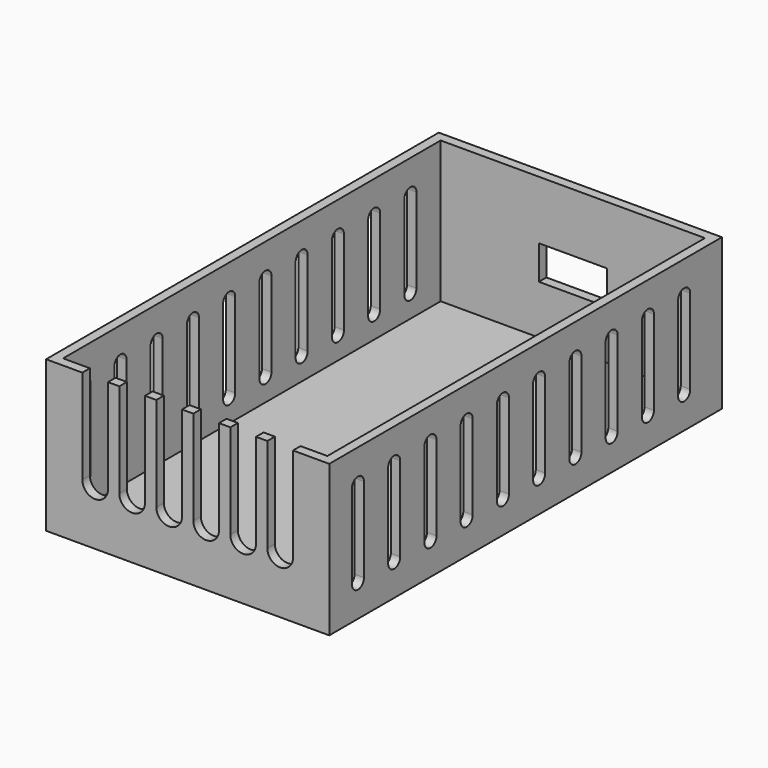
from build123d import *

# Parameters (mm, degrees)
F0_W     = 75
F0_H     = 130
F1_DEPTH = 40
F2_T     = -2.5
F4_DEPTH = 2.5
F5_W     = 18
F5_H     = 9
F6_DEPTH = 2.5
F8_DEPTH = 75


with BuildPart() as f1:
    # F0 (on Top) → F1 (new body)
    with BuildSketch(Plane.XY):
        with Locations((3.0821902634, 0)):
            Rectangle(F0_W, F0_H)
    extrude(amount=F1_DEPTH)

    # F2
    f2_openings = [f1.faces().sort_by_distance(p)[0] for p in [
        (3.08219, 0, 40),
    ]]
    offset(amount=F2_T, openings=f2_openings)

    # F3 (on face) → F4 (cut, through all)
    with BuildSketch(Plane.XZ.offset(65)):
        with BuildLine():
            Line((-18.0178097366, 40), (-24.8178097366, 40))
            Line((-24.8178097366, 40), (-24.8178097366, 15))
            ThreePointArc((-24.8178097366, 15), (-21.4178097366, 11.6), (-18.0178097366, 15))
            Line((-18.0178097366, 15), (-18.0178097366, 40))
        make_face()
        with BuildLine():
            Line((-8.2178097366, 40), (-15.0178097366, 40))
            Line((-15.0178097366, 40), (-15.0178097366, 15))
            ThreePointArc((-15.0178097366, 15), (-11.6178097366, 11.6), (-8.2178097366, 15))
            Line((-8.2178097366, 15), (-8.2178097366, 40))
        make_face()
        with BuildLine():
            Line((1.5821902634, 40), (-5.2178097366, 40))
            Line((-5.2178097366, 40), (-5.2178097366, 15))
            ThreePointArc((-5.2178097366, 15), (-1.8178097366, 11.6), (1.5821902634, 15))
            Line((1.5821902634, 15), (1.5821902634, 40))
        make_face()
        with BuildLine():
            Line((11.3821902634, 40), (4.5821902634, 40))
            Line((4.5821902634, 40), (4.5821902634, 15))
            ThreePointArc((4.5821902634, 15), (7.9821902634, 11.6), (11.3821902634, 15))
            Line((11.3821902634, 15), (11.3821902634, 40))
        make_face()
        with BuildLine():
            Line((21.1821902634, 15), (21.1821902634, 40))
            Line((21.1821902634, 40), (14.3821902634, 40))
            Line((14.3821902634, 40), (14.3821902634, 15))
            ThreePointArc((14.3821902634, 15), (17.7821902634, 11.6), (21.1821902634, 15))
        make_face()
        with BuildLine():
            Line((30.9821902634, 15), (30.9821902634, 40))
            Line((30.9821902634, 40), (24.1821902634, 40))
            Line((24.1821902634, 40), (24.1821902634, 15))
            ThreePointArc((24.1821902634, 15), (27.5821902634, 11.6), (30.9821902634, 15))
        make_face()
    extrude(amount=-F4_DEPTH, mode=Mode.SUBTRACT)

    # F5 (on face) → F6 (cut, through all)
    with BuildSketch(Plane(origin=(0, 65, 0), x_dir=(-1, 0, 0), z_dir=(0, 1, 0))):
        with Locations((-3.0821902634, 20)):
            Rectangle(F5_W, F5_H)
    extrude(amount=-F6_DEPTH, mode=Mode.SUBTRACT)

    # F7 (on face) → F8 (cut, through all)
    with BuildSketch(Plane.YZ.offset(40.5821902634)):
        with BuildLine():
            Line((-53.5, 8.790538609), (-53.5, 31.209461391))
            ThreePointArc((-53.5, 31.209461391), (-55.5, 33.209461391), (-57.5, 31.209461391))
            Line((-57.5, 31.209461391), (-57.5, 8.790538609))
            ThreePointArc((-57.5, 8.790538609), (-55.5, 6.790538609), (-53.5, 8.790538609))
        make_face()
        with BuildLine():
            Line((-29.5, 8.790538609), (-29.5, 31.209461391))
            ThreePointArc((-29.5, 31.209461391), (-31.5, 33.209461391), (-33.5, 31.209461391))
            Line((-33.5, 31.209461391), (-33.5, 8.790538609))
            ThreePointArc((-33.5, 8.790538609), (-31.5, 6.790538609), (-29.5, 8.790538609))
        make_face()
        with BuildLine():
            Line((-17.5, 8.790538609), (-17.5, 31.209461391))
            ThreePointArc((-17.5, 31.209461391), (-19.5, 33.209461391), (-21.5, 31.209461391))
            Line((-21.5, 31.209461391), (-21.5, 8.790538609))
            ThreePointArc((-21.5, 8.790538609), (-19.5, 6.790538609), (-17.5, 8.790538609))
        make_face()
        with BuildLine():
            Line((-5.5, 8.790538609), (-5.5, 31.209461391))
            ThreePointArc((-5.5, 31.209461391), (-7.5, 33.209461391), (-9.5, 31.209461391))
            Line((-9.5, 31.209461391), (-9.5, 8.790538609))
            ThreePointArc((-9.5, 8.790538609), (-7.5, 6.790538609), (-5.5, 8.790538609))
        make_face()
        with BuildLine():
            Line((6.5, 8.790538609), (6.5, 31.209461391))
            ThreePointArc((6.5, 31.209461391), (4.5, 33.209461391), (2.5, 31.209461391))
            Line((2.5, 31.209461391), (2.5, 8.790538609))
            ThreePointArc((2.5, 8.790538609), (4.5, 6.790538609), (6.5, 8.790538609))
        make_face()
        with BuildLine():
            Line((18.5, 8.790538609), (18.5, 31.209461391))
            ThreePointArc((18.5, 31.209461391), (16.5, 33.209461391), (14.5, 31.209461391))
            Line((14.5, 31.209461391), (14.5, 8.790538609))
            ThreePointArc((14.5, 8.790538609), (16.5, 6.790538609), (18.5, 8.790538609))
        make_face()
        with BuildLine():
            Line((30.5, 8.790538609), (30.5, 31.209461391))
            ThreePointArc((30.5, 31.209461391), (28.5, 33.209461391), (26.5, 31.209461391))
            Line((26.5, 31.209461391), (26.5, 8.790538609))
            ThreePointArc((26.5, 8.790538609), (28.5, 6.790538609), (30.5, 8.790538609))
        make_face()
        with BuildLine():
            Line((42.5, 8.790538609), (42.5, 31.209461391))
            ThreePointArc((42.5, 31.209461391), (40.5, 33.209461391), (38.5, 31.209461391))
            Line((38.5, 31.209461391), (38.5, 8.790538609))
            ThreePointArc((38.5, 8.790538609), (40.5, 6.790538609), (42.5, 8.790538609))
        make_face()
        with BuildLine():
            Line((54.5, 8.790538609), (54.5, 31.209461391))
            ThreePointArc((54.5, 31.209461391), (52.5, 33.209461391), (50.5, 31.209461391))
            Line((50.5, 31.209461391), (50.5, 8.790538609))
            ThreePointArc((50.5, 8.790538609), (52.5, 6.790538609), (54.5, 8.790538609))
        make_face()
        with BuildLine():
            Line((-41.5, 8.790538609), (-41.5, 31.209461391))
            ThreePointArc((-41.5, 31.209461391), (-43.5, 33.209461391), (-45.5, 31.209461391))
            Line((-45.5, 31.209461391), (-45.5, 8.790538609))
            ThreePointArc((-45.5, 8.790538609), (-43.5, 6.790538609), (-41.5, 8.790538609))
        make_face()
    extrude(amount=-F8_DEPTH, mode=Mode.SUBTRACT)


solid = f1.part
